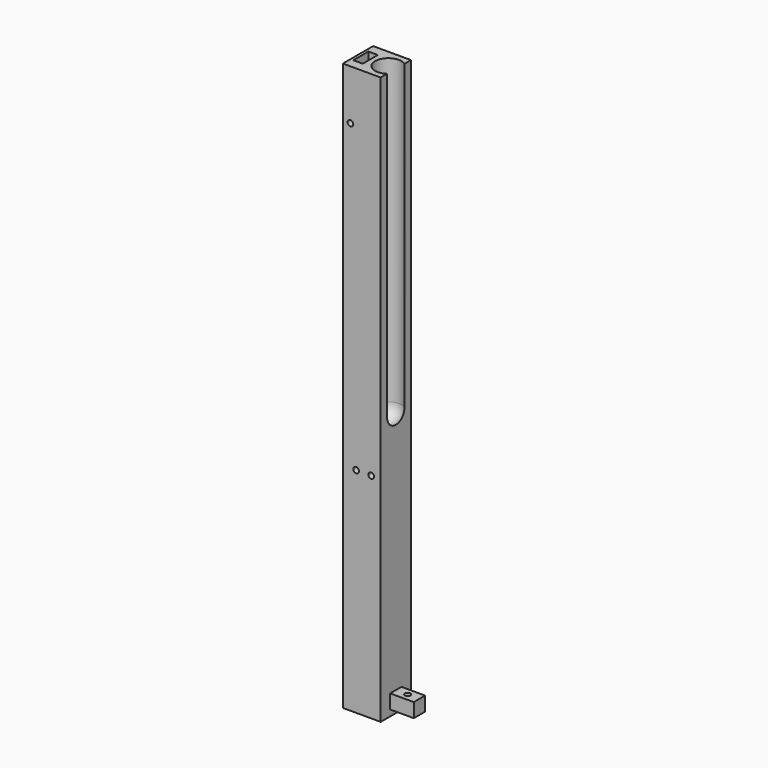
from build123d import *

# Parameters (mm, degrees)
CYLINDER265_R          = 3
CYLINDER265_DEPTH      = 50
CYLINDER265_ROLL_ANGLE = 90
BOX129_W               = 60
BOX129_H               = 22
BOX129_DEPTH           = 23
CYLINDER193_R          = 3
CYLINDER193_DEPTH      = 100
CYLINDER193_ROLL_ANGLE = 90
CYLINDER188_R          = 3
CYLINDER188_DEPTH      = 65
BOX117_W               = 25
BOX117_H               = 15
BOX117_DEPTH           = 15
CYLINDER186_R          = 6
CYLINDER186_DEPTH      = 16
CYLINDER187_R          = 12.5
CYLINDER187_DEPTH      = 4
CYLINDER185_R          = 3
CYLINDER185_DEPTH      = 60
CYLINDER185_ROLL_ANGLE = 90
BOX116_W               = 10
BOX116_H               = 20
BOX116_DEPTH           = 60
CYLINDER184_R          = 14
CYLINDER184_DEPTH      = 320
BOX115_W               = 40
BOX115_H               = 40
BOX115_DEPTH           = 600
CUT233_PLACEMENT_ANGLE = 180


with BuildPart() as obj1:
    # Cylinder265 → Cylinder265 (new body)
    with BuildSketch(Plane.XY):
        Circle(CYLINDER265_R)
    extrude(amount=CYLINDER265_DEPTH)


with BuildPart() as obj1_1:
    # Cylinder265 roll: moved
    add(obj1.part.rotate(Axis((0, 0, 0), (1, 0, 0)), CYLINDER265_ROLL_ANGLE))


with BuildPart() as obj1_2:
    # Cylinder265 placement: moved
    add(obj1_1.part.moved(Location((-466, 485, 211))))


with BuildPart() as cubo092:
    # Box129 → Box129 (new body)
    with BuildSketch(Plane(origin=(-505, 449, 199), x_dir=(1, 0, 0), z_dir=(0, 0, 1))):
        with Locations((30, 11)):
            Rectangle(BOX129_W, BOX129_H)
    extrude(amount=BOX129_DEPTH)


with BuildPart() as obj2:
    # Cylinder193 → Cylinder193 (new body)
    with BuildSketch(Plane.XY):
        Circle(CYLINDER193_R)
    extrude(amount=CYLINDER193_DEPTH)


with BuildPart() as obj2_1:
    # Cylinder193 roll: moved
    add(obj2.part.rotate(Axis((0, 0, 0), (1, 0, 0)), CYLINDER193_ROLL_ANGLE))


with BuildPart() as obj2_2:
    # Cylinder193 placement: moved
    add(obj2_1.part.moved(Location((-450, 50, 211))))


with BuildPart() as cilindro105:
    # Cylinder188 → Cylinder188 (new body)
    with BuildSketch(Plane(origin=(-427.5, 0, -24.5), x_dir=(1, 0, 0), z_dir=(0, 0, 1))):
        Circle(CYLINDER188_R)
    extrude(amount=CYLINDER188_DEPTH)


with BuildPart() as cut236:
    # Box117 → Box117 (new body)
    with BuildSketch(Plane(origin=(-440, -7.5, -8.5), x_dir=(1, 0, 0), z_dir=(0, 0, 1))):
        with Locations((12.5, 7.5)):
            Rectangle(BOX117_W, BOX117_H)
    extrude(amount=BOX117_DEPTH)

    # Cut236: cut Cilindro105
    add(cilindro105.part, mode=Mode.SUBTRACT)


with BuildPart() as obj3:
    # Cylinder186 → Cylinder186 (new body)
    with BuildSketch(Plane(origin=(-460, 0, -11), x_dir=(1, 0, 0), z_dir=(0, 0, 1))):
        Circle(CYLINDER186_R)
    extrude(amount=CYLINDER186_DEPTH)


with BuildPart() as rodamiento006:
    # Cylinder187 → Cylinder187 (new body)
    with BuildSketch(Plane(origin=(-460, 0, -15), x_dir=(1, 0, 0), z_dir=(0, 0, 1))):
        Circle(CYLINDER187_R)
    extrude(amount=CYLINDER187_DEPTH)


with BuildPart() as obj4:
    # Sphere017 → Sphere017 (revolve)
    with BuildSketch(Plane(origin=(8, 0, 265), x_dir=(1, 0, 0), z_dir=(0, -1, 0))):
        with BuildLine():
            ThreePointArc((0, -14), (14, 0), (0, 14))
            Line((0, 14), (0, -14))
        make_face()
    revolve(axis=Axis((8, 0, 265), (0, 0, 1)))


with BuildPart() as obj5:
    # Cylinder185 → Cylinder185 (new body)
    with BuildSketch(Plane.XY):
        Circle(CYLINDER185_R)
    extrude(amount=CYLINDER185_DEPTH)


with BuildPart() as obj5_1:
    # Cylinder185 roll: moved
    add(obj5.part.rotate(Axis((0, 0, 0), (1, 0, 0)), CYLINDER185_ROLL_ANGLE))


with BuildPart() as obj5_2:
    # Cylinder185 placement: moved
    add(obj5_1.part.moved(Location((32, 30, 532))))


with BuildPart() as obj6:
    # Box116 → Box116 (new body)
    with BuildSketch(Plane(origin=(27, -10, 525), x_dir=(1, 0, 0), z_dir=(0, 0, 1))):
        with Locations((5, 10)):
            Rectangle(BOX116_W, BOX116_H)
    extrude(amount=BOX116_DEPTH)


with BuildPart() as obj7:
    # Cylinder184 → Cylinder184 (new body)
    with BuildSketch(Plane(origin=(8, 0, 265), x_dir=(1, 0, 0), z_dir=(0, 0, 1))):
        Circle(CYLINDER184_R)
    extrude(amount=CYLINDER184_DEPTH)


with BuildPart() as cut285:
    # Box115 → Box115 (new body)
    with BuildSketch(Plane(origin=(0, -20, -15), x_dir=(1, 0, 0), z_dir=(0, 0, 1))):
        with Locations((20, 20)):
            Rectangle(BOX115_W, BOX115_H)
    extrude(amount=BOX115_DEPTH)

    # Cut230: cut obj7
    add(obj7.part, mode=Mode.SUBTRACT)

    # Cut231: cut obj6
    add(obj6.part, mode=Mode.SUBTRACT)

    # Cut232: cut obj5
    add(obj5_2.part, mode=Mode.SUBTRACT)

    # Cut233: cut obj4
    add(obj4.part, mode=Mode.SUBTRACT)


with BuildPart() as cut285_1:
    # Cut233 placement: moved
    add(cut285.part.moved(Location((-440, 0, 0))).rotate(Axis((-440, 0, 0), (0, 0, 1)), CUT233_PLACEMENT_ANGLE))

    # Cut234: cut rodamiento006
    add(rodamiento006.part, mode=Mode.SUBTRACT)

    # Cut235: cut obj3
    add(obj3.part, mode=Mode.SUBTRACT)

    # Fusion057: union Cut236
    add(cut236.part)

    # Cut244: cut obj2
    add(obj2_2.part, mode=Mode.SUBTRACT)


with BuildPart() as cut285_2:
    # Cut244 placement: moved
    add(cut285_1.part.moved(Location((0, 460, 0))))

    # Cut284: cut Cubo092
    add(cubo092.part, mode=Mode.SUBTRACT)

    # Cut285: cut obj1
    add(obj1_2.part, mode=Mode.SUBTRACT)


solid = cut285_2.part
